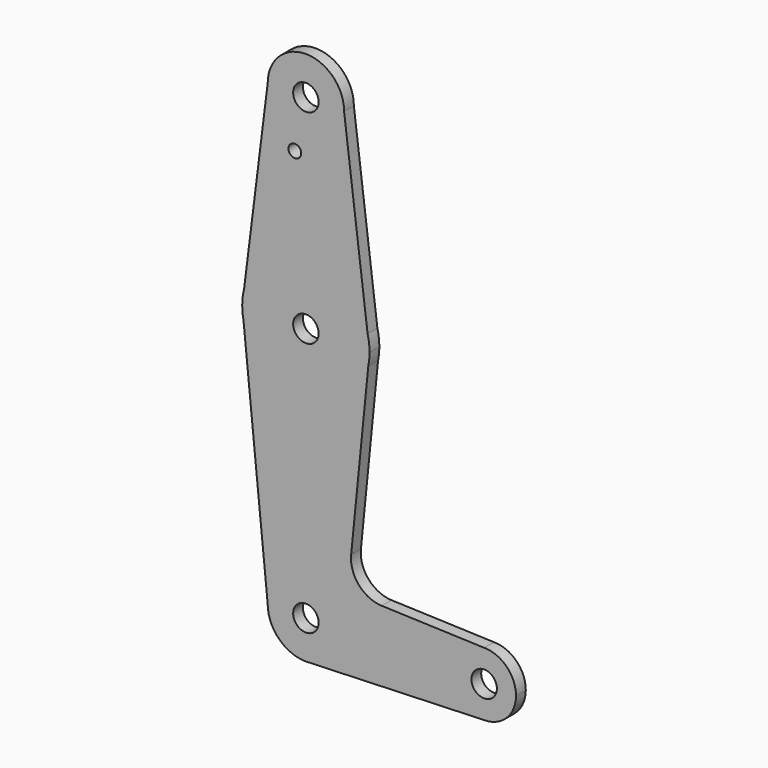
from build123d import *

# Parameters (mm, degrees)
F0_R     = 3.175
F0_R_2   = 1.5875
F1_DEPTH = 3.048


with BuildPart() as f1:
    # F0 (on Front) → F1 (new body)
    with BuildSketch(Plane.XZ):
        with BuildLine():
            ThreePointArc((0.6794904459, -9.5007324841), (6.9712901065, -6.4905114784), (9.525, 0))
            ThreePointArc((9.525, 0), (0, 9.525), (-9.525, 0))
            ThreePointArc((-9.525, 0), (-6.7351920908, -6.7351920908), (0, -9.525))
            Line((0, -9.525), (0.6794904459, -9.5007324841))
        make_face()
        Circle(F0_R, mode=Mode.SUBTRACT)
        with BuildLine():
            ThreePointArc((-9.525, 0), (0, 9.525), (9.525, 0))
            ThreePointArc((9.525, 0), (6.9712901065, -6.4905114784), (0.6794904459, -9.5007324841))
            Line((0.6794904459, -9.5007324841), (44.45, -7.9375))
            ThreePointArc((44.45, -7.9375), (36.5125, 0), (44.45, 7.9375))
            Line((44.45, 7.9375), (18.9105730062, 8.8496223926))
            ThreePointArc((18.9105730062, 8.8496223926), (13.2053552395, 11.5661923774), (11.2835831424, 17.5858314242))
            Line((11.2835831424, 17.5858314242), (15.5606435644, 60.3564356436))
            ThreePointArc((15.5606435644, 60.3564356436), (0, 47.625), (-15.5606435644, 60.3564356436))
            Line((-15.5606435644, 60.3564356436), (-9.525, 0))
        make_face()
        with BuildLine():
            ThreePointArc((0, -9.525), (0.3399618281, -9.5189311877), (0.6794904459, -9.5007324841))
            Line((0.6794904459, -9.5007324841), (0, -9.525))
        make_face()
        with BuildLine():
            Line((-15.875, 63.5), (-15.5606435644, 60.3564356436))
            ThreePointArc((-15.5606435644, 60.3564356436), (0, 47.625), (15.5606435644, 60.3564356436))
            Line((15.5606435644, 60.3564356436), (15.875, 63.5))
            Line((15.875, 63.5), (15.3865384615, 67.4076923077))
            ThreePointArc((15.3865384615, 67.4076923077), (0, 79.375), (-15.3865384615, 67.4076923077))
            Line((-15.3865384615, 67.4076923077), (-15.875, 63.5))
        make_face()
        with Locations((0, 63.5)):
            Circle(F0_R, mode=Mode.SUBTRACT)
        with BuildLine():
            ThreePointArc((-15.875, 63.5), (-15.7962153946, 61.9203784605), (-15.5606435644, 60.3564356436))
            Line((-15.5606435644, 60.3564356436), (-15.875, 63.5))
        make_face()
        with BuildLine():
            ThreePointArc((44.45, 7.9375), (36.5125, 0), (44.45, -7.9375))
            ThreePointArc((44.45, -7.9375), (50.0626600757, -5.6126600757), (52.3875, 0))
            ThreePointArc((52.3875, 0), (50.0626600757, 5.6126600757), (44.45, 7.9375))
        make_face()
        with Locations((44.45, 0)):
            Circle(F0_R, mode=Mode.SUBTRACT)
        with BuildLine():
            ThreePointArc((-15.3865384615, 67.4076923077), (-15.7524112928, 65.4690514116), (-15.875, 63.5))
            Line((-15.875, 63.5), (-15.3865384615, 67.4076923077))
        make_face()
        with BuildLine():
            Line((15.875, 63.5), (15.5606435644, 60.3564356436))
            ThreePointArc((15.5606435644, 60.3564356436), (15.7962153946, 61.9203784605), (15.875, 63.5))
        make_face()
        with BuildLine():
            Line((-9.525, 114.3), (-15.3865384615, 67.4076923077))
            ThreePointArc((-15.3865384615, 67.4076923077), (0, 79.375), (15.3865384615, 67.4076923077))
            Line((15.3865384615, 67.4076923077), (9.525, 114.3))
            ThreePointArc((9.525, 114.3), (0, 104.775), (-9.525, 114.3))
        make_face()
        with Locations((-2.7517355047, 101.632155478)):
            Circle(F0_R_2, mode=Mode.SUBTRACT)
        with BuildLine():
            Line((15.3865384615, 67.4076923077), (15.875, 63.5))
            ThreePointArc((15.875, 63.5), (15.7524112928, 65.4690514116), (15.3865384615, 67.4076923077))
        make_face()
        with BuildLine():
            ThreePointArc((9.525, 114.3), (0, 123.825), (-9.525, 114.3))
            ThreePointArc((-9.525, 114.3), (0, 104.775), (9.525, 114.3))
        make_face()
        with Locations((0, 114.3)):
            Circle(F0_R, mode=Mode.SUBTRACT)
    extrude(amount=F1_DEPTH)


solid = f1.part
